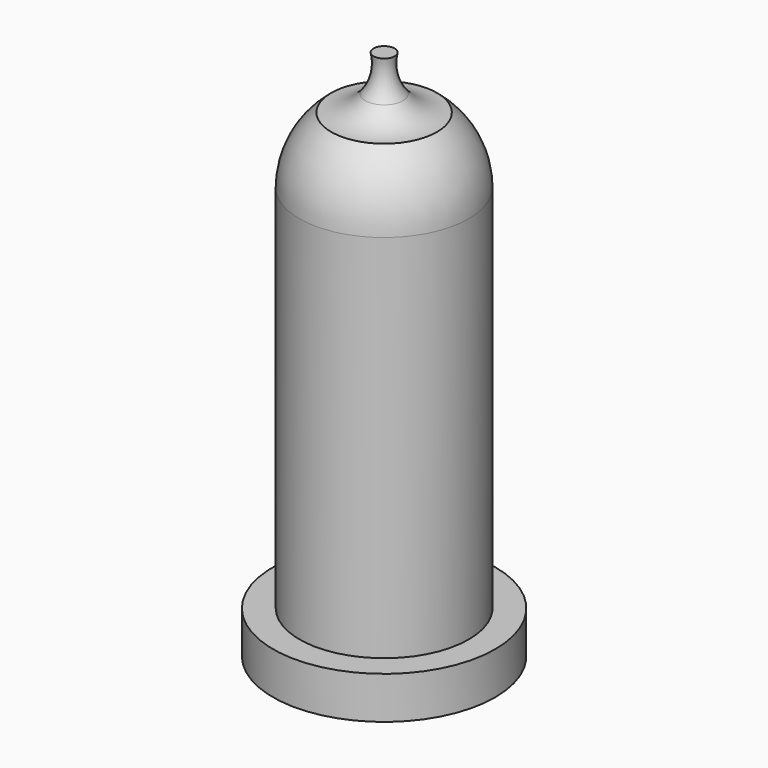
from build123d import *

# Parameters (mm, degrees)
F0_R     = 10.5
F1_DEPTH = 4
F2_R     = 8
F3_DEPTH = 39


with BuildPart() as f1:
    # F0 (on Top) → F1 (new body)
    with BuildSketch(Plane.XY):
        Circle(F0_R)
    extrude(amount=F1_DEPTH)

    # F2 (on Top) → F3 (join)
    with BuildSketch(Plane.XY):
        Circle(F2_R)
    extrude(amount=F3_DEPTH)

    # F4 (on Right) → F5 (revolve)
    with BuildSketch(Plane.YZ):
        with BuildLine():
            Line((5, 45.244998), (0, 45.244998))
            Line((0, 45.244998), (0, 39))
            Line((0, 39), (8, 39))
            ThreePointArc((8, 39), (7.211103, 42.464102), (5, 45.244998))
        make_face()
        with BuildLine():
            Line((0, 50.244998), (0, 47))
            ThreePointArc((0, 47), (0.899322, 46.949291), (1.787243, 46.797805))
            ThreePointArc((1.787243, 46.797805), (1.002907, 48.432173), (1, 50.244998))
            Line((1, 50.244998), (0, 50.244998))
        make_face()
        with BuildLine():
            ThreePointArc((1.787243, 46.797805), (0.899322, 46.949291), (0, 47))
            Line((0, 47), (0, 45.244998))
            Line((0, 45.244998), (5, 45.244998))
            ThreePointArc((5, 45.244998), (3.215832, 45.653556), (1.787243, 46.797805))
        make_face()
    revolve(axis=Axis((0, 0, 43), (0, 0, -1)))


solid = f1.part
